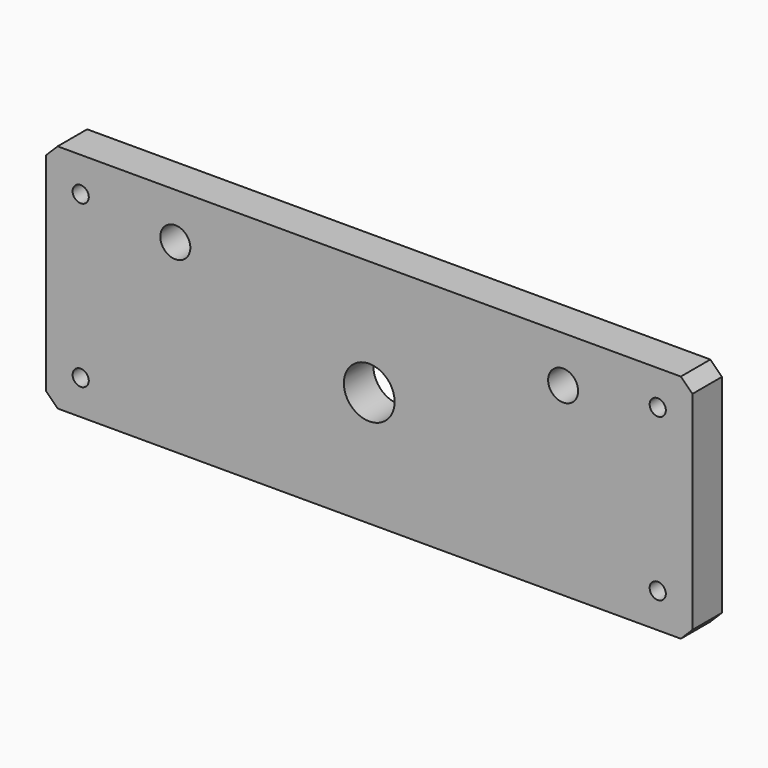
from build123d import *

# Parameters (mm, degrees)
F0_W     = 140
F0_H     = 50
F1_DEPTH = 8
F2_SIZE  = 2.5
F4_D     = 3.5
F5_D     = 6.5
F6_D     = 11


with BuildPart() as f1:
    # F0 (on Front) → F1 (new body)
    with BuildSketch(Plane.XZ):
        Rectangle(F0_W, F0_H)
    extrude(amount=F1_DEPTH)

    # F2
    f2_edges = [f1.edges().sort_by_distance(p)[0] for p in [
        (70, -4, 25),
        (-70, -4, 25),
        (70, -4, -25),
        (-70, -4, -25),
    ]]
    chamfer(f2_edges, length=F2_SIZE)

    # F4 (through all)
    with Locations(Plane.XZ.offset(8)):
        with Locations((62.5, 17.5), (62.5, -17.5), (-62.5, -17.5), (-62.5, 17.5)):
            Hole(F4_D / 2)

    # F5 (through all)
    with Locations(Plane.XZ.offset(8)):
        with Locations((42, 15), (-42, 15)):
            Hole(F5_D / 2)

    # F6 (through all)
    with Locations(Plane.XZ.offset(8)):
        with Locations((0, 0)):
            Hole(F6_D / 2)


solid = f1.part
